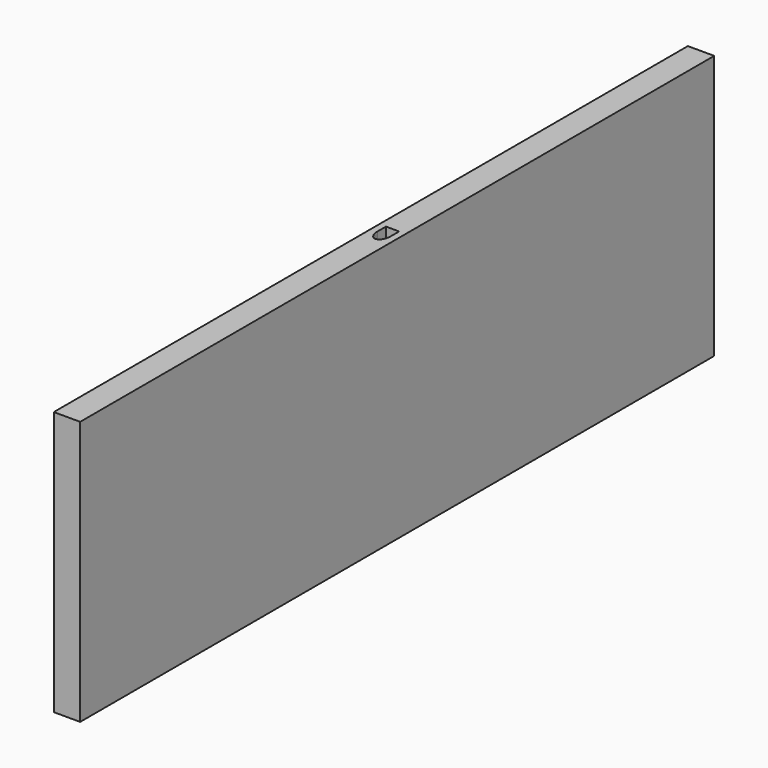
from build123d import *

# Parameters (mm, degrees)
F2_DEPTH = 100
F6_ANGLE = 180


with BuildPart() as f2:
    # F1 (on Top) → F2 (new body)
    with BuildSketch(Plane.XY):
        with BuildLine():
            Line((5, 4.045), (5, 150))
            Line((5, 150), (0, 150))
            Line((0, 150), (0, -150))
            Line((0, -150), (5, -150))
            Line((5, -150), (5, -4.045))
            Line((5, -4.045), (2.5, -4.045))
            Line((2.5, -4.045), (2.5, 0))
            add(Edge.make_bspline(
                [(5, 4.045), (2.5, 4.045), (2.5, 0)],
                knots=[0, 0, 0, 1.5707963268, 1.5707963268, 1.5707963268], degree=2, weights=[1, 0.7071067812, 1]))
        make_face()
    extrude(amount=F2_DEPTH)


with BuildPart() as f2_1:
    # F4: moved
    add(f2.part.moved(Location((-5, 0, 0))))

    # F5: F2 across plane


with BuildPart() as f2_2:
    add(f2_1.part)
    add(f2_1.part.mirror(Plane.YZ))


with BuildPart() as f2_3:
    # F6: moved
    add(f2_2.part.rotate(Axis((5, -150, 50), (0, 0, -1)), F6_ANGLE))


with BuildPart() as f2_4:
    # F9: moved
    add(f2_3.part.moved(Location((-10, 300, 0))))


solid = f2_4.part
